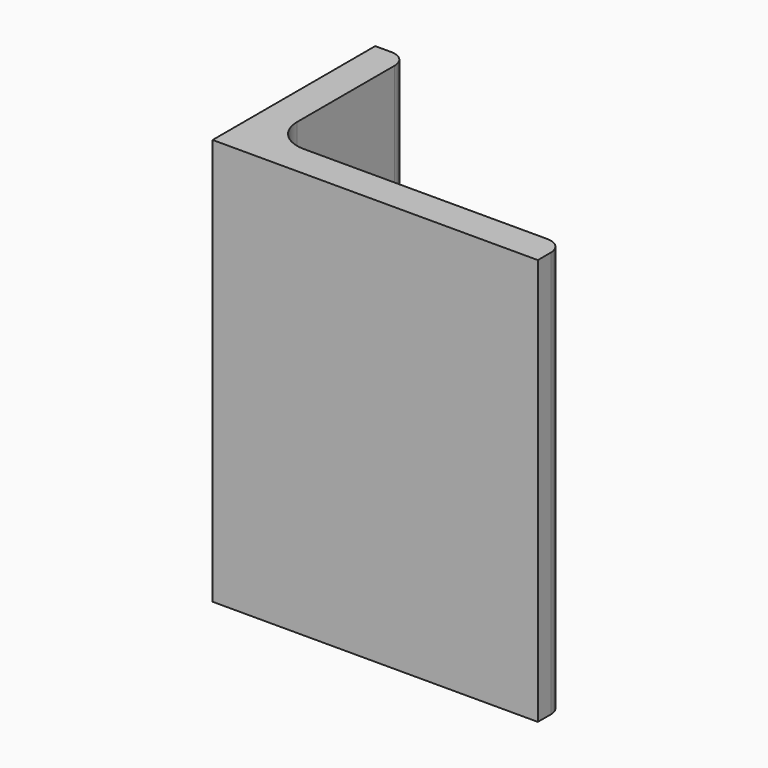
from build123d import *

# Parameters (mm, degrees)
EXTRUDE_DEPTH = 50


with BuildPart() as part:
    # Sketch → Extrude (new body)
    with BuildSketch(Plane.XY):
        with BuildLine():
            Line((0, 0), (40, 0))
            Line((40, 0), (40, 2))
            ThreePointArc((40, 2), (39.414214, 3.414214), (38, 4))
            Line((38, 4), (8, 4))
            ThreePointArc((4, 8), (5.171573, 5.171573), (8, 4))
            Line((4, 23), (4, 8))
            ThreePointArc((4, 23), (3.414214, 24.414214), (2, 25))
            Line((0, 25), (2, 25))
            Line((0, 0), (0, 25))
        make_face()
    extrude(amount=EXTRUDE_DEPTH)


solid = part.part
